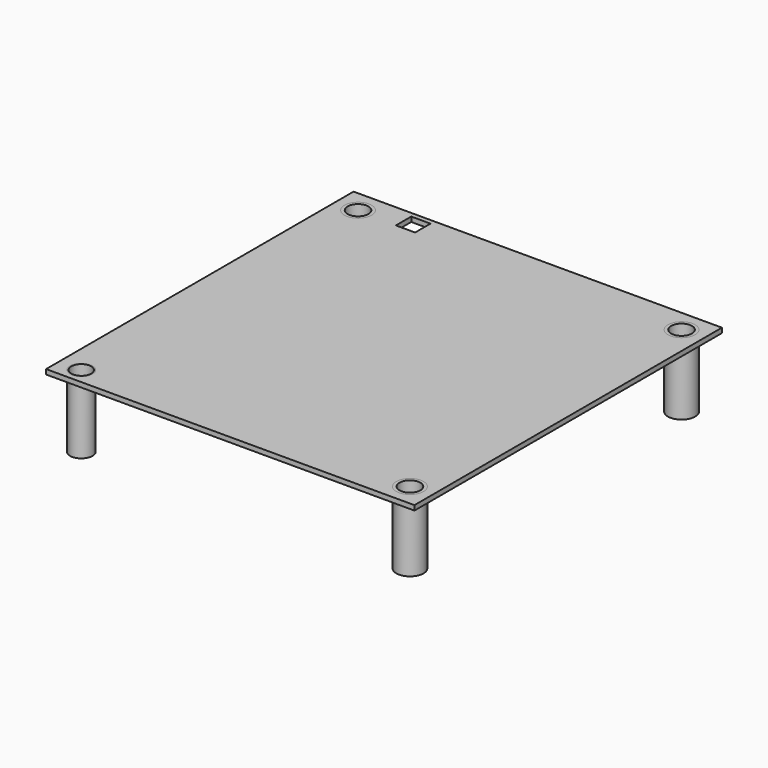
from build123d import *

# Parameters (mm, degrees)
F0_W      = 115
F0_H      = 120
F0_R      = 3.5
F0_R_2    = 4.25
F0_W_2    = 6
F0_H_2    = 6
F1_DEPTH  = 1.5
F2_DEPTH  = 22.5
F3_R      = 3.25
F4_DEPTH  = 20.5
F5_R      = 3.25
F6_DEPTH  = 20.5
F7_R      = 3.1
F8_DEPTH  = 20.5
F9_R      = 3.25
F10_DEPTH = 20.5
F11_R     = 1.6
F12_DEPTH = 2.5
F13_R     = 1.6
F14_DEPTH = 2.5
F15_R     = 1.6
F16_DEPTH = 2.5
F17_R     = 1.6
F18_DEPTH = 2.5


with BuildPart() as f1:
    # F0 (on Top) → F1 (new body)
    with BuildSketch(Plane.XY):
        with Locations((5, 5)):
            Rectangle(F0_W, F0_H)
        with Locations((-45.5, -50)):
            Circle(F0_R, mode=Mode.SUBTRACT)
        with Locations((55.5, -48)):
            Circle(F0_R_2, mode=Mode.SUBTRACT)
        with Locations((-45.5, 58)):
            Circle(F0_R_2, mode=Mode.SUBTRACT)
        with Locations((-30.291278, 60.5)):
            Rectangle(F0_W_2, F0_H_2, mode=Mode.SUBTRACT)
        with Locations((55.5, 58)):
            Circle(F0_R_2, mode=Mode.SUBTRACT)
    extrude(amount=-F1_DEPTH)


with BuildPart() as f2:
    # F0 (on Top) → F2 (new body)
    with BuildSketch(Plane.XY):
        with Locations((-45.5, 58)):
            Circle(F0_R_2)
        with Locations((55.5, 58)):
            Circle(F0_R_2)
        with Locations((-45.5, -50)):
            Circle(F0_R)
        with Locations((55.5, -48)):
            Circle(F0_R_2)
    extrude(amount=-F2_DEPTH)

    # F3 (on face) → F4 (cut)
    with BuildSketch(Plane.XY):
        with Locations((55.5, 58)):
            Circle(F3_R)
    extrude(amount=-F4_DEPTH, mode=Mode.SUBTRACT)

    # F5 (on face) → F6 (cut)
    with BuildSketch(Plane.XY):
        with Locations((-45.5, 58)):
            Circle(F5_R)
    extrude(amount=-F6_DEPTH, mode=Mode.SUBTRACT)

    # F7 (on face) → F8 (cut)
    with BuildSketch(Plane.XY):
        with Locations((-45.5, -50)):
            Circle(F7_R)
    extrude(amount=-F8_DEPTH, mode=Mode.SUBTRACT)

    # F9 (on face) → F10 (cut)
    with BuildSketch(Plane.XY):
        with Locations((55.5, -48)):
            Circle(F9_R)
    extrude(amount=-F10_DEPTH, mode=Mode.SUBTRACT)

    # F11 (on face) → F12 (cut)
    with BuildSketch(Plane(origin=(0, 0, -22.5), x_dir=(1, 0, 0), z_dir=(0, 0, -1))):
        with Locations((-45.5, 50)):
            Circle(F11_R)
    extrude(amount=-F12_DEPTH, mode=Mode.SUBTRACT)

    # F13 (on face) → F14 (cut)
    with BuildSketch(Plane(origin=(0, 0, -22.5), x_dir=(1, 0, 0), z_dir=(0, 0, -1))):
        with Locations((-45.5, -58)):
            Circle(F13_R)
    extrude(amount=-F14_DEPTH, mode=Mode.SUBTRACT)

    # F15 (on face) → F16 (cut)
    with BuildSketch(Plane(origin=(0, 0, -22.5), x_dir=(1, 0, 0), z_dir=(0, 0, -1))):
        with Locations((55.5, -58)):
            Circle(F15_R)
    extrude(amount=-F16_DEPTH, mode=Mode.SUBTRACT)

    # F17 (on face) → F18 (cut)
    with BuildSketch(Plane(origin=(0, 0, -22.5), x_dir=(1, 0, 0), z_dir=(0, 0, -1))):
        with Locations((55.5, 48)):
            Circle(F17_R)
    extrude(amount=-F18_DEPTH, mode=Mode.SUBTRACT)


solid = Compound([f1.part, f2.part])
